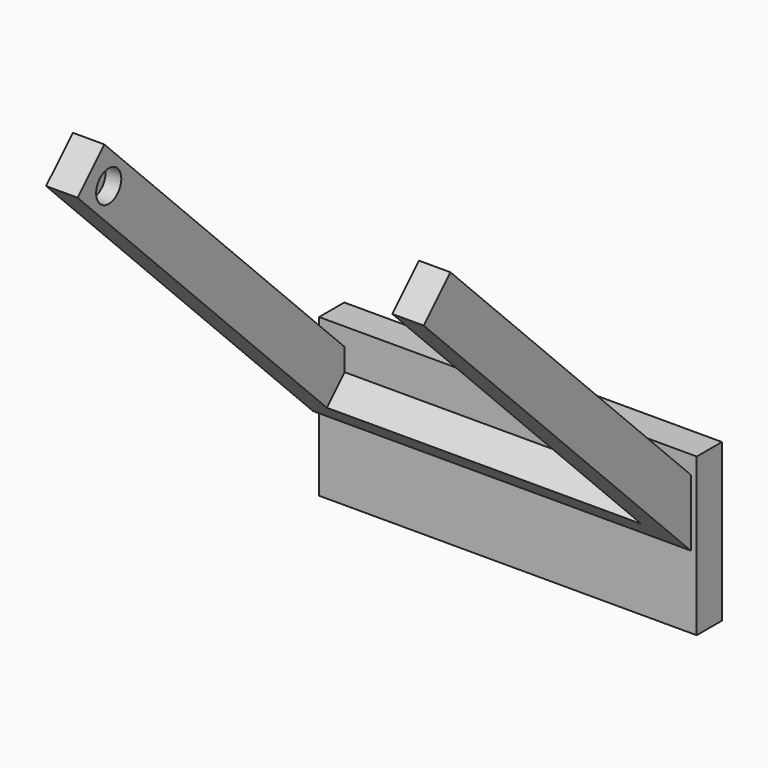
from build123d import *

# Parameters (mm, degrees)
F3_DEPTH  = 15
F4_R      = 5
F5_R      = 5
F6_DEPTH  = 5
F7_DEPTH  = 5
F9_W      = 120
F9_H      = 50
F10_DEPTH = 10


with BuildPart() as f3:
    # F2 (on face) → F3 (new body)
    with BuildSketch(Plane(origin=(0, 0, 0), x_dir=(-1, 0, 0), z_dir=(0, 0.707107, 0.707107))):
        Polygon((-35.762306, -33.914671), (-35.762306, 101.085328), (-35.762306, 106.085329), (-45.762306, 106.085329), (-45.762306, -43.914671), (74.237694, -43.914671), (74.237694, 106.085329), (64.237694, 106.085329), (64.237694, 101.085328), (64.237694, -33.914671), align=None)
    extrude(amount=F3_DEPTH)

    # F4 (on face) + F5 (on face) → F6 (cut)
    with BuildSketch(Plane.YZ.offset(-64.237694)):
        with Locations((-62.639289, 73.245887)):
            Circle(F4_R)
    with BuildSketch(Plane(origin=(35.762306, 0, 0), x_dir=(0, -1, 0), z_dir=(-1, 0, 0))):
        with Locations((62.639287, 73.245889)):
            Circle(F5_R)
    extrude(amount=-F6_DEPTH, mode=Mode.SUBTRACT)

    # F5 (on face) → F7 (cut)
    with BuildSketch(Plane(origin=(35.762306, 0, 0), x_dir=(0, -1, 0), z_dir=(-1, 0, 0))):
        with Locations((62.639287, 73.245889)):
            Circle(F5_R)
    extrude(amount=-F7_DEPTH, mode=Mode.SUBTRACT)


with BuildPart() as f10:
    # F9 (on face) → F10 (new body)
    with BuildSketch(Plane.XZ.offset(-31.052361)):
        with Locations((-12.33696, -29.111071)):
            Rectangle(F9_W, F9_H)
    extrude(amount=-F10_DEPTH)


solid = Compound([f3.part, f10.part])
